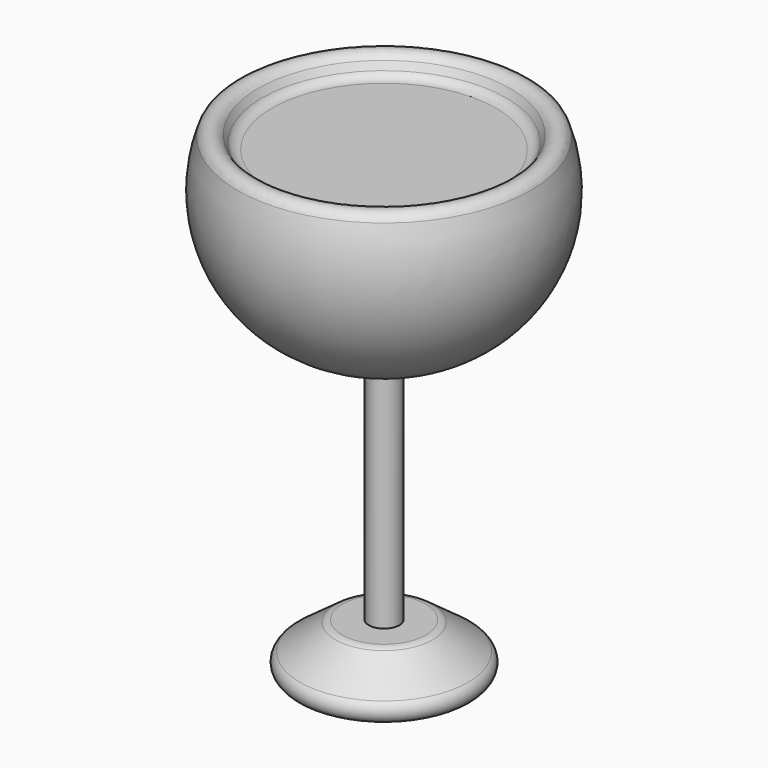
from build123d import *

# Parameters (mm, degrees)
F4_R = 5


with BuildPart() as f1:
    # F0 (on Front) → F1 (revolve)
    with BuildSketch(Plane.XZ):
        with BuildLine():
            Line((0, 183.094785), (0, 0))
            Line((0, 0), (6.754104, 0))
            Line((6.754104, 0), (6.754104, 104.810067))
            ThreePointArc((6.754104, 104.810067), (59.998574, 136.006674), (60.415853, 197.715893))
            Line((60.415853, 197.715893), (52.54294, 183.094785))
            Line((52.54294, 183.094785), (0, 183.094785))
        make_face()
    revolve(axis=Axis((0, 0, 91.547392), (0, 0, 1)))

    # F2 (on Front) → F3 (revolve)
    with BuildSketch(Plane.XZ):
        Polygon((20.131757, 0), (0, 0), (0, -21.42263), (49.578208, -21.42263), align=None)
    revolve(axis=Axis((0, 0, -10.711315), (0, 0, 1)))

    # F4
    f4_edges = [f1.edges().sort_by_distance(p)[0] for p in [
        (-60.415853, 0, 197.715893),
        (-52.54294, 0, 183.094785),
        (-49.578208, 0, -21.42263),
        (-20.131757, 0, 0),
        (34.854983, 0, -10.711315),
    ]]
    fillet(f4_edges, radius=F4_R)


solid = f1.part
